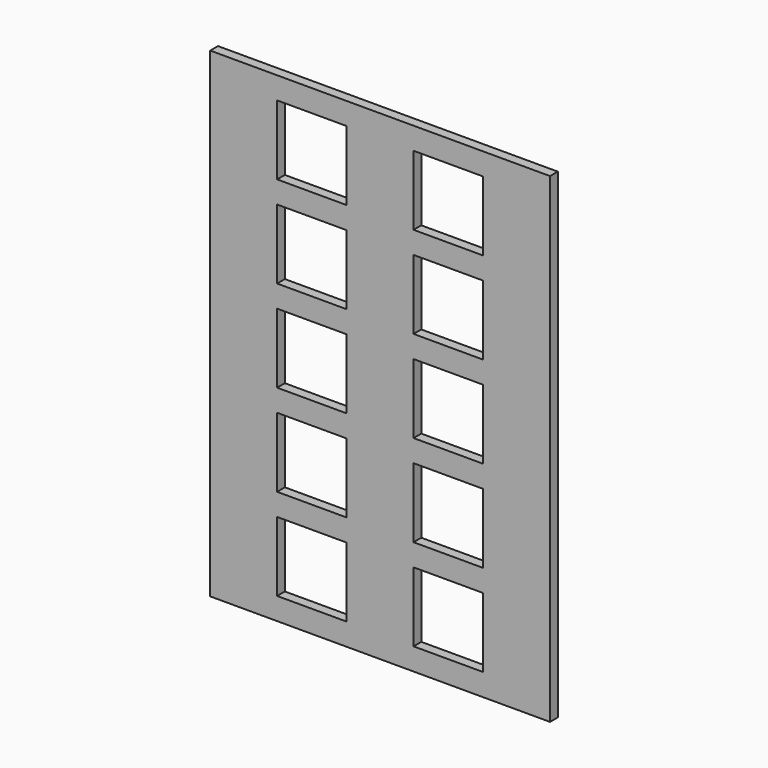
from build123d import *

# Parameters (mm, degrees)
F0_W     = 210
F0_H     = 297
F0_W_2   = 43
F0_H_2   = 43
F1_DEPTH = 3


with BuildPart() as f1:
    # F0 (on Front) → F1 (new body, symmetric)
    with BuildSketch(Plane.XZ):
        Rectangle(F0_W, F0_H)
        with Locations((-42.17, -113.3)):
            Rectangle(F0_W_2, F0_H_2, mode=Mode.SUBTRACT)
        with Locations((-42.17, -56.64)):
            Rectangle(F0_W_2, F0_H_2, mode=Mode.SUBTRACT)
        with Locations((42.16, -113.3)):
            Rectangle(F0_W_2, F0_H_2, mode=Mode.SUBTRACT)
        with Locations((42.16, -56.64)):
            Rectangle(F0_W_2, F0_H_2, mode=Mode.SUBTRACT)
        with Locations((-42.17, 0.02)):
            Rectangle(F0_W_2, F0_H_2, mode=Mode.SUBTRACT)
        with Locations((-42.17, 56.68)):
            Rectangle(F0_W_2, F0_H_2, mode=Mode.SUBTRACT)
        with Locations((-42.17, 113.34)):
            Rectangle(F0_W_2, F0_H_2, mode=Mode.SUBTRACT)
        with Locations((42.16, 0.02)):
            Rectangle(F0_W_2, F0_H_2, mode=Mode.SUBTRACT)
        with Locations((42.16, 56.68)):
            Rectangle(F0_W_2, F0_H_2, mode=Mode.SUBTRACT)
        with Locations((42.16, 113.34)):
            Rectangle(F0_W_2, F0_H_2, mode=Mode.SUBTRACT)
    extrude(amount=F1_DEPTH, both=True)


solid = f1.part
